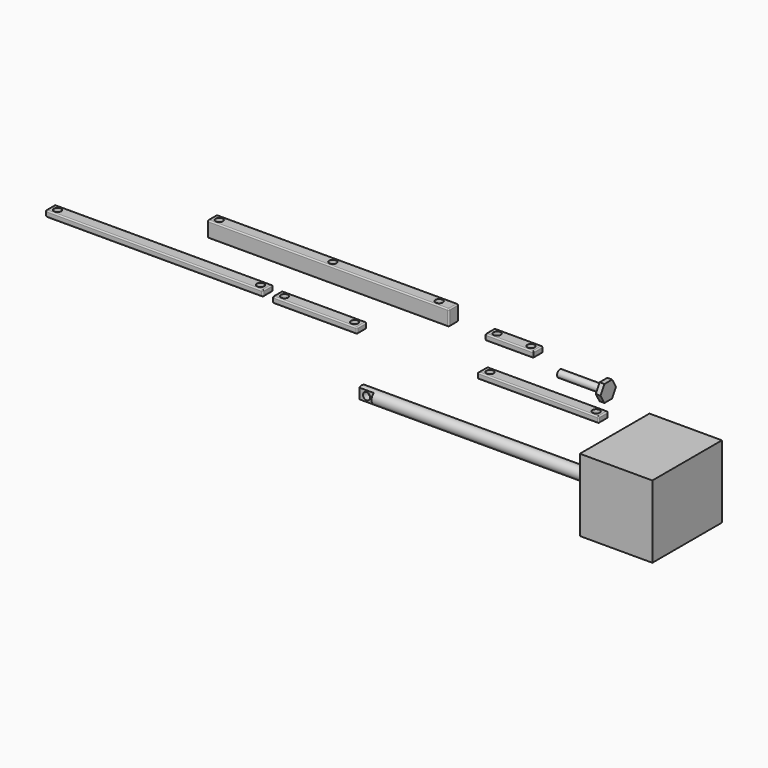
from build123d import *

# Parameters (mm, degrees)
F0_R      = 30.988
F1_DEPTH  = 76.2
F2_R      = 6.35
F3_DEPTH  = 254
F4_R      = 3.81
F5_DEPTH  = 12.7
F6_W      = 15.24
F6_H      = 3.048
F7_DEPTH  = 12.7
F12_DEPTH = 5.08
F13_R     = 3.81
F14_DEPTH = 50.8
F8_W      = 127
F8_H      = 6.35
F15_DEPTH = 6.35
F16_R     = 3.81
F17_DEPTH = 12.7
F18_W     = 88.9
F18_H     = 12.7
F19_DEPTH = 6.35
F20_R     = 3.81
F21_DEPTH = 6.35
F22_W     = 228.6
F22_H     = 12.7
F22_R     = 3.81
F23_DEPTH = 6.35
F24_W     = 254
F24_H     = 12.7
F24_R     = 3.81
F25_DEPTH = 16.51
F26_W     = 50.8
F26_H     = 12.7
F26_R     = 3.81
F27_DEPTH = 6.35
F28_R     = 1.27
F29_R     = 1.27
F30_R     = 1.27
F30_2_R   = 1.27
F30_3_R   = 1.27
F32_DEPTH = 76.2


with BuildPart() as f1:
    # F0 (on Right) → F1 (new body)
    with BuildSketch(Plane.YZ):
        Circle(F0_R)
    extrude(amount=F1_DEPTH)

    # F2 (on face) → F3 (join)
    with BuildSketch(Plane(origin=(0, 0, 0), x_dir=(0, -1, 0), z_dir=(-1, 0, 0))):
        Circle(F2_R)
    extrude(amount=F3_DEPTH)

    # F4 (on Front) → F5 (cut, symmetric)
    with BuildSketch(Plane.XZ):
        with Locations((-246.38, 0)):
            Circle(F4_R)
    extrude(amount=F5_DEPTH, both=True, mode=Mode.SUBTRACT)

    # F6 (on Top) → F7 (cut, symmetric)
    with BuildSketch(Plane.XY):
        with Locations((-246.38, -4.826)):
            Rectangle(F6_W, F6_H)
        with Locations((-246.38, 4.826)):
            Rectangle(F6_W, F6_H)
    extrude(amount=F7_DEPTH, both=True, mode=Mode.SUBTRACT)

    # F31 (on Right) → F32 (join)
    with BuildSketch(Plane.YZ):
        Polygon((-30.988, 38.1), (-30.988, -4.05e-08), (-30.988, -38.1), (60.452, -38.1), (60.452, 38.1), align=None)
        with BuildLine():
            ThreePointArc((-30.988, -4.05e-08), (-2.03e-08, 30.988), (30.988, 0))
            ThreePointArc((30.988, 0), (2.03e-08, -30.988), (-30.988, -4.05e-08))
        make_face(mode=Mode.SUBTRACT)
        with BuildLine():
            ThreePointArc((-30.988, -4.05e-08), (2.03e-08, -30.988), (30.988, 0))
            ThreePointArc((30.988, 0), (-2.03e-08, 30.988), (-30.988, -4.05e-08))
        make_face()
    extrude(amount=F32_DEPTH)


with BuildPart() as f12:
    # F11 (on Right) → F12 (new body)
    with BuildSketch(Plane.YZ):
        Polygon((-5.08, 76.1108668536), (5.08, 76.1108668536), (10.16, 84.9096849561), (5.08, 93.7085030585), (-5.08, 93.7085030585), (-10.16, 84.9096849561), align=None)
    extrude(amount=F12_DEPTH)

    # F13 (on face) → F14 (join)
    with BuildSketch(Plane.YZ.offset(5.08)):
        with Locations((0, 84.9096849561)):
            Circle(F13_R)
    extrude(amount=-F14_DEPTH)


with BuildPart() as f15:
    # F8 (on Front) → F15 (new body, symmetric)
    with BuildSketch(Plane.XZ):
        with Locations((-63.5, 59.055)):
            Rectangle(F8_W, F8_H)
    extrude(amount=F15_DEPTH, both=True)

    # F16 (on face) → F17 (cut)
    with BuildSketch(Plane.XY.offset(62.23)):
        with Locations((-119.38, 0)):
            Circle(F16_R)
        with Locations((-7.62, 0)):
            Circle(F16_R)
    extrude(amount=-F17_DEPTH, mode=Mode.SUBTRACT)

    # F29
    f29_edges = [f15.edges().sort_by_distance(p)[0] for p in [
        (-63.5, 6.35, 62.23),
        (-63.5, -6.35, 62.23),
        (0, 0, 62.23),
        (-127, 0, 62.23),
        (-63.5, -6.35, 55.88),
        (-63.5, 6.35, 55.88),
        (-127, 0, 55.88),
        (0, 6.35, 59.055),
        (0, 0, 55.88),
        (-127, 6.35, 59.055),
        (0, -6.35, 59.055),
    ]]
    fillet(f29_edges, radius=F29_R)


with BuildPart() as f19:
    # F18 (on offset) → F19 (new body)
    with BuildSketch(Plane.XY.offset(55.88)):
        with Locations((-298.45, 0)):
            Rectangle(F18_W, F18_H)
    extrude(amount=F19_DEPTH)

    # F20 (on face) → F21 (cut, symmetric)
    with BuildSketch(Plane.XY.offset(62.23)):
        with Locations((-261.62, 0)):
            Circle(F20_R)
        with Locations((-335.28, 0)):
            Circle(F20_R)
    extrude(amount=F21_DEPTH, both=True, mode=Mode.SUBTRACT)

    # F30#2
    f30_2_edges = [f19.edges().sort_by_distance(p)[0] for p in [
        (-298.45, 6.35, 62.23),
        (-298.45, 6.35, 55.88),
        (-342.9, 0, 62.23),
        (-298.45, -6.35, 62.23),
        (-254, 0, 55.88),
        (-254, -6.35, 59.055),
        (-254, 6.35, 59.055),
        (-254, 0, 62.23),
        (-342.9, 6.35, 59.055),
        (-342.9, -6.35, 59.055),
        (-342.9, 0, 55.88),
        (-298.45, -6.35, 55.88),
    ]]
    fillet(f30_2_edges, radius=F30_2_R)


with BuildPart() as f23:
    # F22 (on offset) → F23 (new body)
    with BuildSketch(Plane.XY.offset(55.88)):
        with Locations((-469.9, 3.302)):
            Rectangle(F22_W, F22_H)
        with Locations((-576.58, 3.302)):
            Circle(F22_R, mode=Mode.SUBTRACT)
        with Locations((-363.22, 3.302)):
            Circle(F22_R, mode=Mode.SUBTRACT)
    extrude(amount=F23_DEPTH)

    # F30#3
    f30_3_edges = [f23.edges().sort_by_distance(p)[0] for p in [
        (-469.9, -3.048, 62.23),
        (-469.9, -3.048, 55.88),
        (-469.9, 9.652, 62.23),
        (-469.9, 9.652, 55.88),
        (-584.2, 3.302, 62.23),
        (-584.2, 3.302, 55.88),
        (-355.6, 3.302, 62.23),
        (-355.6, 3.302, 55.88),
        (-355.6, -3.048, 59.055),
        (-584.2, -3.048, 59.055),
    ]]
    fillet(f30_3_edges, radius=F30_3_R)


with BuildPart() as f25:
    # F24 (on offset) → F25 (new body)
    with BuildSketch(Plane.XY.offset(55.88)):
        with Locations((-330.2, 57.15)):
            Rectangle(F24_W, F24_H)
        with Locations((-449.58, 57.15)):
            Circle(F24_R, mode=Mode.SUBTRACT)
        with Locations((-330.2, 57.15)):
            Circle(F24_R, mode=Mode.SUBTRACT)
        with Locations((-218.44, 57.15)):
            Circle(F24_R, mode=Mode.SUBTRACT)
    extrude(amount=F25_DEPTH)

    # F30
    f30_edges = [f25.edges().sort_by_distance(p)[0] for p in [
        (-330.2, 63.5, 72.39),
        (-330.2, 63.5, 55.88),
        (-457.2, 57.15, 72.39),
        (-330.2, 50.8, 72.39),
        (-203.2, 57.15, 72.39),
        (-203.2, 50.8, 64.135),
        (-203.2, 57.15, 55.88),
        (-203.2, 63.5, 64.135),
        (-457.2, 50.8, 64.135),
        (-457.2, 57.15, 55.88),
        (-330.2, 50.8, 55.88),
    ]]
    fillet(f30_edges, radius=F30_R)


with BuildPart() as f27:
    # F26 (on offset) → F27 (new body)
    with BuildSketch(Plane.XY.offset(55.88)):
        with Locations((-139.7, 57.15)):
            Rectangle(F26_W, F26_H)
        with Locations((-157.48, 57.15)):
            Circle(F26_R, mode=Mode.SUBTRACT)
        with Locations((-121.92, 57.15)):
            Circle(F26_R, mode=Mode.SUBTRACT)
    extrude(amount=F27_DEPTH)

    # F28
    f28_edges = [f27.edges().sort_by_distance(p)[0] for p in [
        (-139.7, 50.8, 62.23),
        (-165.1, 57.15, 62.23),
        (-139.7, 63.5, 62.23),
        (-114.3, 57.15, 62.23),
        (-165.1, 50.8, 59.055),
        (-139.7, 50.8, 55.88),
        (-165.1, 57.15, 55.88),
        (-114.3, 57.15, 55.88),
        (-114.3, 63.5, 59.055),
        (-139.7, 63.5, 55.88),
        (-165.1, 63.5, 59.055),
    ]]
    fillet(f28_edges, radius=F28_R)


solid = Compound([f1.part, f12.part, f15.part, f19.part, f23.part, f25.part, f27.part])
